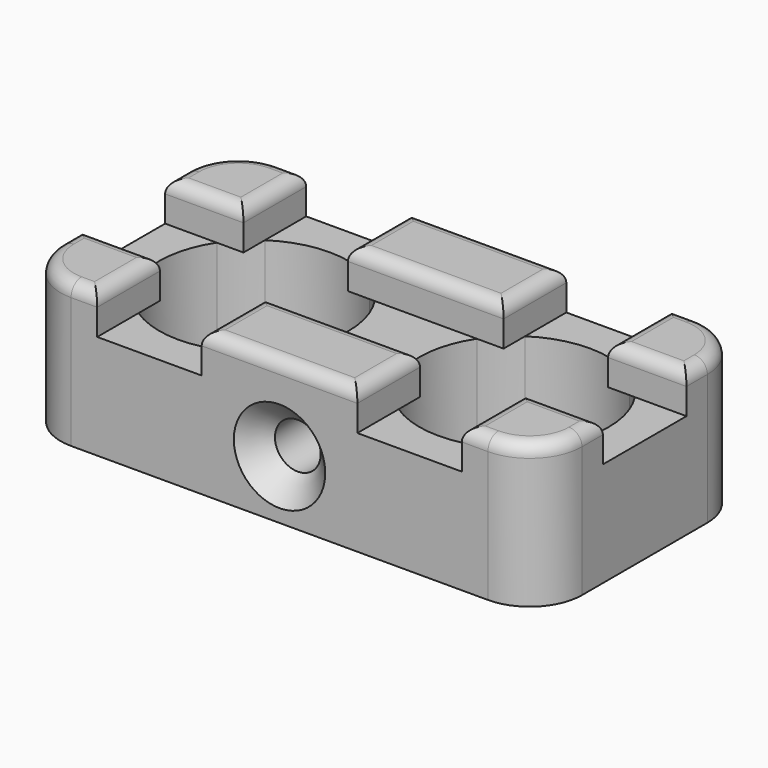
from build123d import *

# Parameters (mm, degrees)
F1_DEPTH        = 10.16
F2_DEPTH        = 13.97
F3_DEPTH        = 10.16
F8_R            = 5.08
F9_R            = 1.27
F11_D           = 4.445
F11_CSINK_D     = 8.89
F11_CSINK_ANGLE = 90


with BuildPart() as f1:
    # F0 (on Top) → F1 (new body)
    with BuildSketch(Plane.XY):
        with BuildLine():
            Line((-4.2164, 11.888180349), (-11.8364, 11.888180349))
            Line((-11.8364, 11.888180349), (-11.8364, 4.268180349))
            Line((-11.8364, 4.268180349), (-6.8157005053, 4.268180349))
            ThreePointArc((-6.8157005053, 4.268180349), (-5.6470856878, 5.6988660368), (-4.2164, 6.8674808543))
            Line((-4.2164, 6.8674808543), (-4.2164, 11.888180349))
        make_face()
        with BuildLine():
            Line((-4.2164, 4.268180349), (-4.2164, 6.8674808543))
            ThreePointArc((-4.2164, 6.8674808543), (-5.6470856878, 5.6988660368), (-6.8157005053, 4.268180349))
            Line((-6.8157005053, 4.268180349), (-4.2164, 4.268180349))
        make_face()
        with BuildLine():
            Line((13.5636, 11.888180349), (5.9436, 11.888180349))
            Line((5.9436, 11.888180349), (5.9436, 6.8674808543))
            ThreePointArc((5.9436, 6.8674808543), (7.3742856878, 5.6988660368), (8.5429005053, 4.268180349))
            Line((8.5429005053, 4.268180349), (13.5636, 4.268180349))
            Line((13.5636, 4.268180349), (13.5636, 11.888180349))
        make_face()
        with BuildLine():
            Line((13.5636, -13.511819651), (13.5636, -5.891819651))
            Line((13.5636, -5.891819651), (8.5429005053, -5.891819651))
            ThreePointArc((8.5429005053, -5.891819651), (7.3742856878, -7.3225053388), (5.9436, -8.4911201562))
            Line((5.9436, -8.4911201562), (5.9436, -13.511819651))
            Line((5.9436, -13.511819651), (13.5636, -13.511819651))
        make_face()
        with BuildLine():
            Line((-4.2164, -8.4911201562), (-4.2164, -13.511819651))
            Line((-4.2164, -13.511819651), (5.9436, -13.511819651))
            Line((5.9436, -13.511819651), (5.9436, -8.4911201562))
            ThreePointArc((5.9436, -8.4911201562), (0.8636, -10.019319651), (-4.2164, -8.4911201562))
        make_face()
        with BuildLine():
            Line((-6.8157005053, -5.891819651), (-11.8364, -5.891819651))
            Line((-11.8364, -5.891819651), (-11.8364, -13.511819651))
            Line((-11.8364, -13.511819651), (-4.2164, -13.511819651))
            Line((-4.2164, -13.511819651), (-4.2164, -8.4911201562))
            ThreePointArc((-4.2164, -8.4911201562), (-5.6470856878, -7.3225053388), (-6.8157005053, -5.891819651))
        make_face()
        with BuildLine():
            Line((-6.8157005053, 4.268180349), (-11.8364, 4.268180349))
            Line((-11.8364, 4.268180349), (-11.8364, -5.891819651))
            Line((-11.8364, -5.891819651), (-6.8157005053, -5.891819651))
            ThreePointArc((-6.8157005053, -5.891819651), (-8.3439, -0.811819651), (-6.8157005053, 4.268180349))
        make_face()
        with BuildLine():
            Line((13.5636, -5.891819651), (13.5636, 4.268180349))
            Line((13.5636, 4.268180349), (8.5429005053, 4.268180349))
            ThreePointArc((8.5429005053, 4.268180349), (9.6807768626, 1.8406223227), (10.0711, -0.811819651))
            ThreePointArc((10.0711, -0.811819651), (9.6807768626, -3.4642616247), (8.5429005053, -5.891819651))
            Line((8.5429005053, -5.891819651), (13.5636, -5.891819651))
        make_face()
        with BuildLine():
            Line((5.9436, 11.888180349), (-4.2164, 11.888180349))
            Line((-4.2164, 11.888180349), (-4.2164, 6.8674808543))
            ThreePointArc((-4.2164, 6.8674808543), (0.8636, 8.395680349), (5.9436, 6.8674808543))
            Line((5.9436, 6.8674808543), (5.9436, 11.888180349))
        make_face()
        with BuildLine():
            ThreePointArc((8.5429005053, 4.268180349), (7.3742856878, 5.6988660368), (5.9436, 6.8674808543))
            Line((5.9436, 6.8674808543), (5.9436, 4.268180349))
            Line((5.9436, 4.268180349), (8.5429005053, 4.268180349))
        make_face()
        with BuildLine():
            Line((5.9436, -5.891819651), (5.9436, -8.4911201562))
            ThreePointArc((5.9436, -8.4911201562), (7.3742856878, -7.3225053388), (8.5429005053, -5.891819651))
            Line((8.5429005053, -5.891819651), (5.9436, -5.891819651))
        make_face()
        with BuildLine():
            Line((-4.2164, -5.891819651), (-6.8157005053, -5.891819651))
            ThreePointArc((-6.8157005053, -5.891819651), (-5.6470856878, -7.3225053388), (-4.2164, -8.4911201562))
            Line((-4.2164, -8.4911201562), (-4.2164, -5.891819651))
        make_face()
    extrude(amount=F1_DEPTH)

    # F0 (on Top) → F2 (join)
    with BuildSketch(Plane.XY):
        with BuildLine():
            Line((-6.8157005053, -5.891819651), (-11.8364, -5.891819651))
            Line((-11.8364, -5.891819651), (-11.8364, -13.511819651))
            Line((-11.8364, -13.511819651), (-4.2164, -13.511819651))
            Line((-4.2164, -13.511819651), (-4.2164, -8.4911201562))
            ThreePointArc((-4.2164, -8.4911201562), (-5.6470856878, -7.3225053388), (-6.8157005053, -5.891819651))
        make_face()
        with BuildLine():
            Line((-4.2164, -5.891819651), (-6.8157005053, -5.891819651))
            ThreePointArc((-6.8157005053, -5.891819651), (-5.6470856878, -7.3225053388), (-4.2164, -8.4911201562))
            Line((-4.2164, -8.4911201562), (-4.2164, -5.891819651))
        make_face()
        with BuildLine():
            Line((13.5636, -13.511819651), (13.5636, -5.891819651))
            Line((13.5636, -5.891819651), (8.5429005053, -5.891819651))
            ThreePointArc((8.5429005053, -5.891819651), (7.3742856878, -7.3225053388), (5.9436, -8.4911201562))
            Line((5.9436, -8.4911201562), (5.9436, -13.511819651))
            Line((5.9436, -13.511819651), (13.5636, -13.511819651))
        make_face()
        with BuildLine():
            Line((5.9436, -5.891819651), (5.9436, -8.4911201562))
            ThreePointArc((5.9436, -8.4911201562), (7.3742856878, -7.3225053388), (8.5429005053, -5.891819651))
            Line((8.5429005053, -5.891819651), (5.9436, -5.891819651))
        make_face()
        with BuildLine():
            Line((13.5636, 11.888180349), (5.9436, 11.888180349))
            Line((5.9436, 11.888180349), (5.9436, 6.8674808543))
            ThreePointArc((5.9436, 6.8674808543), (7.3742856878, 5.6988660368), (8.5429005053, 4.268180349))
            Line((8.5429005053, 4.268180349), (13.5636, 4.268180349))
            Line((13.5636, 4.268180349), (13.5636, 11.888180349))
        make_face()
        with BuildLine():
            ThreePointArc((8.5429005053, 4.268180349), (7.3742856878, 5.6988660368), (5.9436, 6.8674808543))
            Line((5.9436, 6.8674808543), (5.9436, 4.268180349))
            Line((5.9436, 4.268180349), (8.5429005053, 4.268180349))
        make_face()
        with BuildLine():
            Line((-4.2164, 11.888180349), (-11.8364, 11.888180349))
            Line((-11.8364, 11.888180349), (-11.8364, 4.268180349))
            Line((-11.8364, 4.268180349), (-6.8157005053, 4.268180349))
            ThreePointArc((-6.8157005053, 4.268180349), (-5.6470856878, 5.6988660368), (-4.2164, 6.8674808543))
            Line((-4.2164, 6.8674808543), (-4.2164, 11.888180349))
        make_face()
        with BuildLine():
            Line((-4.2164, 4.268180349), (-4.2164, 6.8674808543))
            ThreePointArc((-4.2164, 6.8674808543), (-5.6470856878, 5.6988660368), (-6.8157005053, 4.268180349))
            Line((-6.8157005053, 4.268180349), (-4.2164, 4.268180349))
        make_face()
    extrude(amount=F2_DEPTH)

    # F0 (on Top) → F3 (cut)
    with BuildSketch(Plane.XY):
        with BuildLine():
            Line((-4.2164, 4.268180349), (-4.2164, 6.8674808543))
            ThreePointArc((-4.2164, 6.8674808543), (-5.6470856878, 5.6988660368), (-6.8157005053, 4.268180349))
            Line((-6.8157005053, 4.268180349), (-4.2164, 4.268180349))
        make_face()
        with BuildLine():
            Line((-4.2164, -5.891819651), (-6.8157005053, -5.891819651))
            ThreePointArc((-6.8157005053, -5.891819651), (-5.6470856878, -7.3225053388), (-4.2164, -8.4911201562))
            Line((-4.2164, -8.4911201562), (-4.2164, -5.891819651))
        make_face()
        with BuildLine():
            Line((5.9436, -5.891819651), (5.9436, -8.4911201562))
            ThreePointArc((5.9436, -8.4911201562), (7.3742856878, -7.3225053388), (8.5429005053, -5.891819651))
            Line((8.5429005053, -5.891819651), (5.9436, -5.891819651))
        make_face()
        with BuildLine():
            ThreePointArc((8.5429005053, 4.268180349), (7.3742856878, 5.6988660368), (5.9436, 6.8674808543))
            Line((5.9436, 6.8674808543), (5.9436, 4.268180349))
            Line((5.9436, 4.268180349), (8.5429005053, 4.268180349))
        make_face()
    extrude(amount=F3_DEPTH, mode=Mode.SUBTRACT)


with BuildPart() as f4_1:
    # F4: copy of F1
    add(f1.part.moved(Location((25.654, 0, 0))))


with BuildPart() as f6_1:
    # F6: copy of F1
    add(f1.part.moved(Location((25.2984, 0, 0))))


with BuildPart() as f1_1:
    add(f1.part)

    # F7: union F6_1
    add(f6_1.part)

    # F8
    f8_edges = [f1_1.edges().sort_by_distance(p)[0] for p in [
        (-11.8364, 11.88818, 6.985),
        (38.862, 11.88818, 6.985),
        (38.862, -13.51182, 6.985),
        (-11.8364, -13.51182, 6.985),
    ]]
    fillet(f8_edges, radius=F8_R)

    # F9
    f9_edges = [f1_1.edges().sort_by_distance(p)[0] for p in [
        (-10.348502, 10.400283, 13.97),
        (-4.2164, 8.07818, 13.97),
        (-8.0264, 4.26818, 13.97),
        (-8.0264, -5.89182, 13.97),
        (-4.2164, -9.70182, 13.97),
        (-10.348502, -12.023922, 13.97),
        (5.9436, -9.70182, 13.97),
        (9.7028, -5.89182, 13.97),
        (13.5128, -5.89182, 13.97),
        (9.7028, -13.51182, 13.97),
        (13.5128, -13.51182, 13.97),
        (32.512, -13.51182, 13.97),
        (21.082, -9.70182, 13.97),
        (13.5128, 11.88818, 13.97),
        (9.7028, 11.88818, 13.97),
        (17.3228, 11.88818, 13.97),
        (5.9436, 8.07818, 13.97),
        (21.082, 8.07818, 13.97),
        (13.5128, 4.26818, 13.97),
        (9.7028, 4.26818, 13.97),
        (31.242, 8.07818, 13.97),
        (35.052, 4.26818, 13.97),
        (35.052, -5.89182, 13.97),
        (31.242, -9.70182, 13.97),
        (37.374102, 10.400283, 13.97),
        (37.374102, -12.023922, 13.97),
    ]]
    fillet(f9_edges, radius=F9_R)

    # F11 (through all)
    with Locations(Plane.XZ.offset(13.511819651)):
        with Locations((13.5128, 5.7118628174)):
            CounterSinkHole(F11_D / 2, F11_CSINK_D / 2, counter_sink_angle=F11_CSINK_ANGLE)


solid = f1_1.part
